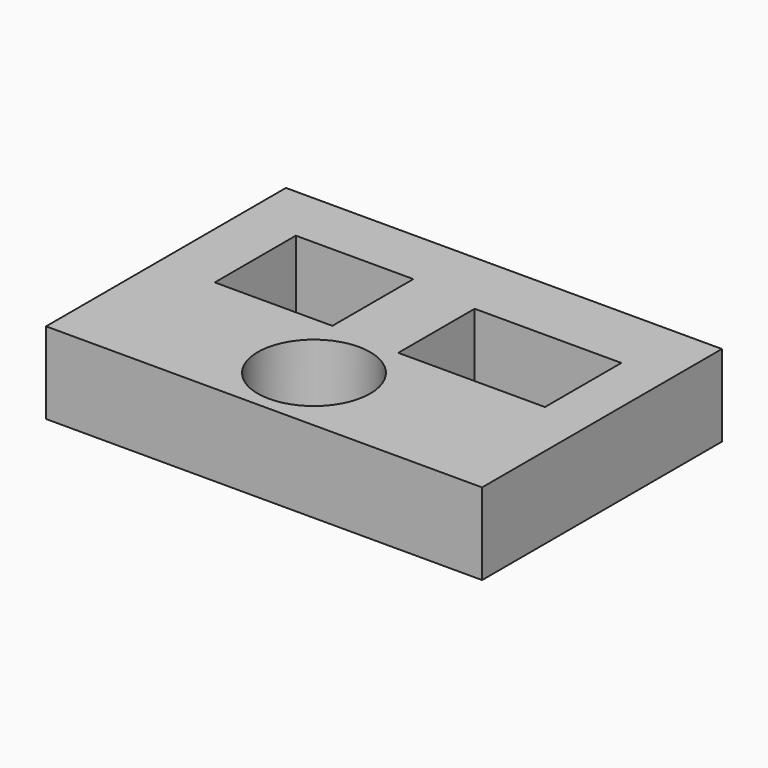
from build123d import *

# Parameters (mm, degrees)
SKETCH_W      = 53.423679
SKETCH_H      = 36.733238
SKETCH_R      = 6.890311
SKETCH_W_2    = 14.407981
SKETCH_H_2    = 12.410843
SKETCH_W_3    = 17.974331
SKETCH_H_3    = 11.697579
EXTRUDE_DEPTH = 10


with BuildPart() as part:
    # Sketch → Extrude (new body)
    with BuildSketch(Plane.XY):
        with Locations((26.711839, 18.366619)):
            Rectangle(SKETCH_W, SKETCH_H)
        with Locations((26.034237, 8.487874)):
            Circle(SKETCH_R, mode=Mode.SUBTRACT)
        with Locations((14.122684, 23.395151)):
            Rectangle(SKETCH_W_2, SKETCH_H_2, mode=Mode.SUBTRACT)
        with Locations((38.730382, 22.610557)):
            Rectangle(SKETCH_W_3, SKETCH_H_3, mode=Mode.SUBTRACT)
    extrude(amount=EXTRUDE_DEPTH)


solid = part.part
